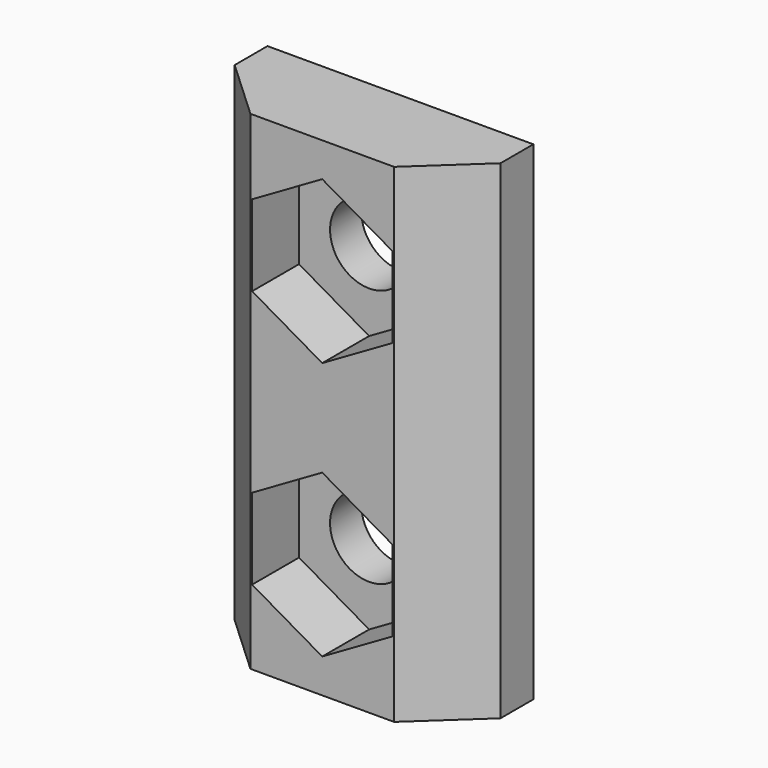
from build123d import *

# Parameters (mm, degrees)
PAD_DEPTH       = 20
SKETCH001_W     = 5.88
SKETCH001_H     = 1.68
POCKET_DEPTH    = 20
POCKET001_DEPTH = 2.4
SKETCH003_R     = 1.6
POCKET002_DEPTH = 1.6


with BuildPart() as part:
    # Sketch → Pad (new body)
    with BuildSketch(Plane.XY):
        Polygon((2.94, -2.84), (-2.94, -2.84), (-5.44, -0.52), (-5.44, 1.16), (-2.94, 1.16), (-2.94, 2.84), (2.94, 2.84), (2.94, 1.16), (5.44, 1.16), (5.44, -0.52), align=None)
    extrude(amount=PAD_DEPTH)

    # Sketch001 (on Face11 of Pad) → Pocket (cut)
    with BuildSketch(Plane(origin=(0, 0, 0), x_dir=(1, 0, 0), z_dir=(0, 0, -1))):
        with Locations((0, -2)):
            Rectangle(SKETCH001_W, SKETCH001_H)
    extrude(amount=-POCKET_DEPTH, mode=Mode.SUBTRACT)

    # Sketch002 (on Face1 of Pocket) → Pocket001 (cut)
    with BuildSketch(Plane.XZ.offset(2.84)):
        Polygon((0, 18.6), (-2.87, 16.943005), (-2.87, 13.629014), (0, 11.972019), (2.87, 13.629014), (2.87, 16.943005), align=None)
        Polygon((2.87, 6.370986), (0, 8.027981), (-2.87, 6.370986), (-2.87, 3.056995), (0, 1.4), (2.87, 3.056995), align=None)
    extrude(amount=-POCKET001_DEPTH, mode=Mode.SUBTRACT)

    # Sketch003 (on Face24 of Pocket001) → Pocket002 (cut)
    with BuildSketch(Plane.XZ.offset(0.44)):
        with Locations((0, 15.286009)):
            Circle(SKETCH003_R)
        with Locations((0, 4.713991)):
            Circle(SKETCH003_R)
    extrude(amount=-POCKET002_DEPTH, mode=Mode.SUBTRACT)


solid = part.part
